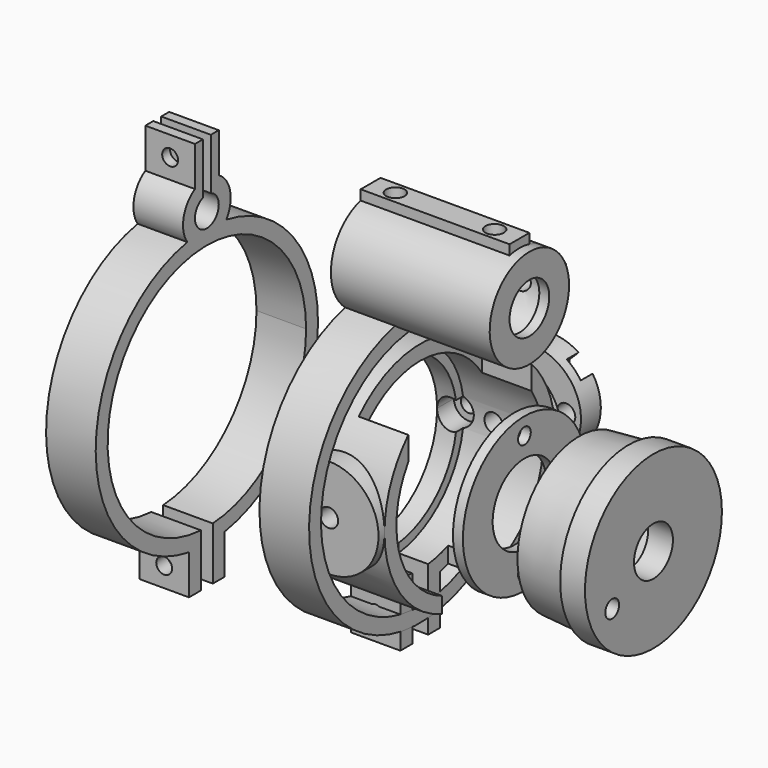
from build123d import *

# Parameters (mm, degrees)
SKETCH_R             = 25
SKETCH_R_2           = 3
PAD_DEPTH            = 10
SKETCH039_R          = 1.6
POCKET_DEPTH         = 31.001
SKETCH040_R          = 1.6
POCKET024_DEPTH      = 32.501
SKETCH041_W          = 2
SKETCH041_H          = 10.367725298
SKETCH041_W_2        = 3
SKETCH041_H_2        = 10.6810677839
POCKET025_DEPTH      = 10.001
SKETCH007_R          = 16.25
SKETCH008_R          = 15.5
SKETCH009_R          = 17.25
PAD003_DEPTH         = 5
SKETCH010_R          = 4.9
POCKET004_DEPTH      = 5.001
SKETCH011_R          = 1.85
POCKET005_DEPTH      = 10.0010001
SKETCH012_R          = 1.75
POCKET006_DEPTH      = 10.0010001
POCKET006_DEPTH_BACK = 5.001
SKETCH049_R          = 15.5
SKETCH049_R_2        = 8
PAD014_DEPTH         = 2
SKETCH050_R          = 1.6
POCKET032_DEPTH      = 2.001
SKETCH030_R          = 21.5
PAD010_DEPTH         = 20
SKETCH031_R          = 10
PAD011_DEPTH         = 23
SKETCH032_W          = 10
SKETCH032_H          = 10
PAD012_DEPTH         = 10
SKETCH033_R          = 1.6
POCKET018_DEPTH      = 28.0010001
POCKET019_DEPTH      = 20.0010001
SKETCH035_R          = 18.5
POCKET020_DEPTH      = 16.0010001
SKETCH036_W          = 14
SKETCH036_H          = 4.2822308391
SKETCH036_W_2        = 31
SKETCH036_H_2        = 11.4004950616
POCKET021_DEPTH      = 10.0010001
SKETCH046_R          = 1.85
POCKET029_DEPTH      = 46.0010001
SKETCH047_R          = 1.6
POCKET030_DEPTH      = 10
SKETCH048_R          = 3
POCKET031_DEPTH      = 10
SKETCH042_R          = 10
PAD013_DEPTH         = 5
POCKET026_DEPTH      = 3
SKETCH044_R          = 2.75
POCKET027_DEPTH      = 5.001
SKETCH045_R          = 1.85
POCKET028_DEPTH      = 5.001
BODY008_ROLL_ANGLE   = -90
BODY008_PITCH_ANGLE  = -45
SKETCH051_R          = 28
SKETCH051_R_2        = 25
PAD015_DEPTH         = 10
SKETCH052_W          = 10
SKETCH052_H          = 10
PAD016_DEPTH         = 10
SKETCH053_W          = 12.5699626343
SKETCH053_H          = 2
POCKET033_DEPTH      = 10.001
SKETCH054_R          = 1.65
POCKET034_DEPTH      = 33.001
POCKET035_DEPTH      = 2
SKETCH056_R          = 10
PAD017_DEPTH         = 30
SKETCH057_W          = 5
SKETCH057_H          = 2
SKETCH057_W_2        = 2
SKETCH057_H_2        = 5
PAD018_DEPTH         = 30
SKETCH058_R          = 1.85
POCKET036_DEPTH      = 6
SKETCH059_R          = 1.85
POCKET037_DEPTH      = 6
SKETCH060_R          = 10
SKETCH060_R_2        = 5
PAD019_DEPTH         = 2


with BuildPart() as sight:
    # Sketch → Pad (new body)
    with BuildSketch(Plane.YZ):
        with BuildLine():
            ThreePointArc((-4.9190904212, 27.564516129), (-27.999193066, -0.2125738789), (-4.5, -27.6360272109))
            Line((-4.5, -27.6360272109), (-4.5, -35.6360272109))
            Line((-4.5, -35.6360272109), (4.5, -35.6360272109))
            Line((4.5, -35.6360272109), (4.5, -27.6360272109))
            ThreePointArc((4.5, -27.6360272109), (27.999193066, -0.2125738789), (4.9190904212, 27.564516129))
            ThreePointArc((4.9190904212, 27.564516129), (5.8569859614, 32.302196394), (3, 36.1961524227))
            Line((3, 36.1961524227), (3, 44.1961524227))
            Line((3, 44.1961524227), (-3, 44.1961524227))
            Line((-3, 44.1961524227), (-3, 36.1961524227))
            ThreePointArc((-3, 36.1961524227), (-5.8569859614, 32.302196394), (-4.9190904212, 27.564516129))
        make_face()
        Circle(SKETCH_R, mode=Mode.SUBTRACT)
        with Locations((0, 31)):
            Circle(SKETCH_R_2, mode=Mode.SUBTRACT)
    extrude(amount=PAD_DEPTH)

    # Sketch039 (on Face9 of Pad) → Pocket (cut, through all)
    with BuildSketch(Plane(origin=(0, -3, 0), x_dir=(0, 0, -1), z_dir=(0, -1, 0))):
        with Locations((-40.1961524227, 5)):
            Circle(SKETCH039_R)
    extrude(amount=-POCKET_DEPTH, mode=Mode.SUBTRACT)

    # Sketch040 (on Face3 of Pocket) → Pocket024 (cut, through all)
    with BuildSketch(Plane(origin=(0, -4.5, 0), x_dir=(0, 0, -1), z_dir=(0, -1, 0))):
        with Locations((31.6360272109, 5)):
            Circle(SKETCH040_R)
    extrude(amount=-POCKET024_DEPTH, mode=Mode.SUBTRACT)

    # Sketch041 → Pocket025 (cut, through all)
    with BuildSketch(Plane.YZ):
        with Locations((0, 39.0122897737)):
            Rectangle(SKETCH041_W, SKETCH041_H)
        with Locations((0, -30.2954933189)):
            Rectangle(SKETCH041_W_2, SKETCH041_H_2)
    extrude(amount=POCKET025_DEPTH, mode=Mode.SUBTRACT)


with BuildPart() as sight_1:
    # Body placement: moved
    add(sight.part.moved(Location((-43, 0, 0))))


with BuildPart() as end_cap:
    # Sketch007 → AdditiveLoft section 0
    with BuildSketch(Plane.YZ):
        Circle(SKETCH007_R)
    # Sketch008 → AdditiveLoft section 1
    with BuildSketch(Plane.YZ.offset(-10)):
        Circle(SKETCH008_R)
    loft()

    # Sketch009 → Pad003 (new body)
    with BuildSketch(Plane.YZ):
        Circle(SKETCH009_R)
    extrude(amount=PAD003_DEPTH)

    # Sketch010 → Pocket004 (cut, through all)
    with BuildSketch(Plane.YZ):
        Circle(SKETCH010_R)
    extrude(amount=POCKET004_DEPTH, mode=Mode.SUBTRACT)

    # Sketch011 → Pocket005 (cut, through all)
    with BuildSketch(Plane.YZ):
        with Locations((0, 12)):
            Circle(SKETCH011_R)
        with Locations((0, -12)):
            Circle(SKETCH011_R)
        Polygon((-9.8149545762, 0), (-4.9074772881, -8.5), (4.9074772881, -8.5), (9.8149545762, 0), (4.9074772881, 8.5), (-4.9074772881, 8.5), align=None)
    extrude(amount=-POCKET005_DEPTH, mode=Mode.SUBTRACT)

    # Sketch012 → Pocket006 (cut, two sides)
    with BuildSketch(Plane.YZ) as pocket006_sk:
        with Locations((-10.3923048454, -6)):
            Circle(SKETCH012_R)
    extrude(amount=-POCKET006_DEPTH, mode=Mode.SUBTRACT)
    extrude(pocket006_sk.sketch, amount=POCKET006_DEPTH_BACK, mode=Mode.SUBTRACT)


with BuildPart() as end_cap_1:
    # Body002 placement: moved
    add(end_cap.part.moved(Location((52, 0, 0))))


with BuildPart() as instruments:
    # Sketch049 → Pad014 (new body)
    with BuildSketch(Plane.YZ):
        Circle(SKETCH049_R)
        Circle(SKETCH049_R_2, mode=Mode.SUBTRACT)
    extrude(amount=PAD014_DEPTH)

    # Sketch050 (on Face3 of Pad014) → Pocket032 (cut, through all)
    with BuildSketch(Plane(origin=(0, 0, 0), x_dir=(0, 1, 0), z_dir=(-1, 0, 0))):
        with Locations((0, 12)):
            Circle(SKETCH050_R)
        with Locations((0, -12)):
            Circle(SKETCH050_R)
    extrude(amount=-POCKET032_DEPTH, mode=Mode.SUBTRACT)


with BuildPart() as instruments_1:
    # Body003 placement: moved
    add(instruments.part.moved(Location((29, 0, 0))))


with BuildPart() as obj1:
    # Sketch030 → Pad010 (new body)
    with BuildSketch(Plane.YZ):
        Circle(SKETCH030_R)
    extrude(amount=PAD010_DEPTH)

    # Sketch031 → Pad011 (join, symmetric)
    with BuildSketch(Plane.XZ):
        with Locations((10, 0)):
            Circle(SKETCH031_R)
    extrude(amount=PAD011_DEPTH, both=True)

    # Sketch032 → Pad012 (join)
    with BuildSketch(Plane.YZ):
        with Locations((0, -25.9105236663)):
            Rectangle(SKETCH032_W, SKETCH032_H)
    extrude(amount=PAD012_DEPTH)

    # Sketch033 (on Face8 of Pad012) → Pocket018 (cut, through all)
    with BuildSketch(Plane(origin=(0, -5, 0), x_dir=(0, 0, -1), z_dir=(0, -1, 0))):
        with Locations((25.9105236663, 5)):
            Circle(SKETCH033_R)
    extrude(amount=-POCKET018_DEPTH, mode=Mode.SUBTRACT)

    # Sketch034 → Pocket019 (cut, through all)
    with BuildSketch(Plane.YZ):
        with BuildLine():
            ThreePointArc((2, -16.6301683696), (0, 16.75), (-2, -16.6301683696))
            Line((-2, -16.6301683696), (-2, -30.9105236663))
            Line((-2, -30.9105236663), (2, -30.9105236663))
            Line((2, -30.9105236663), (2, -16.6301683696))
        make_face()
    extrude(amount=POCKET019_DEPTH, mode=Mode.SUBTRACT)

    # Sketch035 → Pocket020 (cut, through all)
    with BuildSketch(Plane.YZ.offset(4)):
        Circle(SKETCH035_R)
    extrude(amount=POCKET020_DEPTH, mode=Mode.SUBTRACT)

    # Sketch036 → Pocket021 (cut, through all)
    with BuildSketch(Plane.YZ.offset(10)):
        with Locations((0, -19.2656592091)):
            Rectangle(SKETCH036_W, SKETCH036_H)
        with Locations((0, 15.7997524692)):
            Rectangle(SKETCH036_W_2, SKETCH036_H_2)
    extrude(amount=POCKET021_DEPTH, mode=Mode.SUBTRACT)

    # Sketch046 (on Face19 of Pocket021) → Pocket029 (cut, through all)
    with BuildSketch(Plane(origin=(0, -23, 0), x_dir=(0, 0, -1), z_dir=(0, -1, 0))):
        with Locations((0, 10)):
            Circle(SKETCH046_R)
    extrude(amount=-POCKET029_DEPTH, mode=Mode.SUBTRACT)

    # Sketch047 (on Face23 of Pocket029) → Pocket030 (cut)
    with BuildSketch(Plane.ZX.offset(23)):
        with Locations((0, 17)):
            Circle(SKETCH047_R)
        with Locations((0, 3)):
            Circle(SKETCH047_R)
    extrude(amount=-POCKET030_DEPTH, mode=Mode.SUBTRACT)

    # Sketch048 (on Face23 of Pocket030) → Pocket031 (cut)
    with BuildSketch(Plane.ZX.offset(21)):
        with Locations((0, 17)):
            Circle(SKETCH048_R)
        with Locations((0, 3)):
            Circle(SKETCH048_R)
    extrude(amount=-POCKET031_DEPTH, mode=Mode.SUBTRACT)


with BuildPart() as servo_adapter:
    # Sketch042 → Pad013 (new body)
    with BuildSketch(Plane.XY):
        Circle(SKETCH042_R)
    extrude(amount=PAD013_DEPTH)

    # Sketch043 (on Face3 of Pad013) → Pocket026 (cut)
    with BuildSketch(Plane.XY.offset(5)):
        with BuildLine():
            Line((-2, 10), (2, 10))
            Line((2, 10), (2, 3.3))
            ThreePointArc((2, 3.3), (2.3807611845, 2.3807611845), (3.3, 2))
            Line((3.3, 2), (10, 2))
            Line((10, 2), (10, -2))
            Line((10, -2), (3.3, -2))
            ThreePointArc((3.3, -2), (2.3807611845, -2.3807611845), (2, -3.3))
            Line((2, -3.3), (2, -10))
            Line((2, -10), (-2, -10))
            Line((-2, -10), (-2, -3.3))
            ThreePointArc((-2, -3.3), (-2.3807611845, -2.3807611845), (-3.3, -2))
            Line((-3.3, -2), (-10, -2))
            Line((-10, -2), (-10, 2))
            Line((-10, 2), (-3.3, 2))
            ThreePointArc((-3.3, 2), (-2.3807611845, 2.3807611845), (-2, 3.3))
            Line((-2, 3.3), (-2, 10))
        make_face()
    extrude(amount=-POCKET026_DEPTH, mode=Mode.SUBTRACT)

    # Sketch044 (on Face2 of Pocket026) → Pocket027 (cut, through all)
    with BuildSketch(Plane(origin=(0, 0, 0), x_dir=(1, 0, 0), z_dir=(0, 0, -1))):
        Circle(SKETCH044_R)
    extrude(amount=-POCKET027_DEPTH, mode=Mode.SUBTRACT)

    # Sketch045 (on Face8 of Pocket027) → Pocket028 (cut, through all)
    with BuildSketch(Plane.XY.offset(5)):
        with Locations((4.9497474683, 4.9497474683)):
            Circle(SKETCH045_R)
        with Locations((-4.9497474683, -4.9497474683)):
            Circle(SKETCH045_R)
    extrude(amount=-POCKET028_DEPTH, mode=Mode.SUBTRACT)


with BuildPart() as servo_adapter_1:
    # Body008 roll: moved
    add(servo_adapter.part.rotate(Axis((0, 0, 0), (1, 0, 0)), BODY008_ROLL_ANGLE))


with BuildPart() as servo_adapter_2:
    # Body008 pitch: moved
    add(servo_adapter_1.part.rotate(Axis((0, 0, 0), (0, 1, 0)), BODY008_PITCH_ANGLE))


with BuildPart() as servo_adapter_3:
    # Body008 placement: moved
    add(servo_adapter_2.part.moved(Location((10, 28, 0))))


with BuildPart() as sight2:
    # Sketch051 → Pad015 (new body)
    with BuildSketch(Plane.YZ):
        Circle(SKETCH051_R)
        Circle(SKETCH051_R_2, mode=Mode.SUBTRACT)
    extrude(amount=PAD015_DEPTH)

    # Sketch052 → Pad016 (join)
    with BuildSketch(Plane.YZ):
        with Locations((32.5499546279, 0)):
            Rectangle(SKETCH052_W, SKETCH052_H)
    extrude(amount=PAD016_DEPTH)

    # Sketch053 (on Face7 of Pad016) → Pocket033 (cut, through all)
    with BuildSketch(Plane.YZ.offset(10)):
        with Locations((31.2649733108, 0)):
            Rectangle(SKETCH053_W, SKETCH053_H)
    extrude(amount=-POCKET033_DEPTH, mode=Mode.SUBTRACT)

    # Sketch054 (on Face7 of Pocket033) → Pocket034 (cut, through all)
    with BuildSketch(Plane(origin=(0, 0, 5), x_dir=(0, -1, 0), z_dir=(0, 0, 1))):
        with Locations((-32.5499546279, 5)):
            Circle(SKETCH054_R)
    extrude(amount=-POCKET034_DEPTH, mode=Mode.SUBTRACT)

    # Sketch055 (on Face1 of Pocket034) → Pocket035 (cut)
    with BuildSketch(Plane.YX.offset(5)):
        Polygon((30.9622413876, 2.25), (34.1376678682, 2.25), (35.7253811085, 5), (34.1376678682, 7.75), (30.9622413876, 7.75), (29.3745281474, 5), align=None)
    extrude(amount=-POCKET035_DEPTH, mode=Mode.SUBTRACT)

    # Sketch056 → Pad017 (join)
    with BuildSketch(Plane.YZ):
        with Locations((0, 35)):
            Circle(SKETCH056_R)
    extrude(amount=PAD017_DEPTH)

    # Cone → Cone (revolve, cut)
    with BuildSketch(Plane(origin=(15, 0, 35), x_dir=(0, 0, 1), z_dir=(0, 1, 0))):
        Polygon((0, 0), (6.1, 0), (7, 15), (0, 15), align=None)
    revolve(axis=Axis((15, 0, 35), (1, 0, 0)), mode=Mode.SUBTRACT)

    # Cone001 → Cone001 (revolve, cut)
    with BuildSketch(Plane(origin=(0, 0, 35), x_dir=(0, 0, 1), z_dir=(0, 1, 0))):
        Polygon((0, 0), (7, 0), (6.1, 15), (0, 15), align=None)
    revolve(axis=Axis((0, 0, 35), (1, 0, 0)), mode=Mode.SUBTRACT)

    # Sketch057 → Pad018 (join)
    with BuildSketch(Plane.YZ):
        with Locations((0, 45.6824583655)):
            Rectangle(SKETCH057_W, SKETCH057_H)
        with Locations((10.6824583655, 35)):
            Rectangle(SKETCH057_W_2, SKETCH057_H_2)
    extrude(amount=PAD018_DEPTH)

    # Sketch058 (on Face28 of Pad018) → Pocket036 (cut)
    with BuildSketch(Plane(origin=(0, 0, 46.6824583655), x_dir=(0, -1, 0), z_dir=(0, 0, 1))):
        with Locations((0, 25)):
            Circle(SKETCH058_R)
        with Locations((0, 5)):
            Circle(SKETCH058_R)
    extrude(amount=-POCKET036_DEPTH, mode=Mode.SUBTRACT)

    # Sketch059 (on Face14 of Pocket036) → Pocket037 (cut)
    with BuildSketch(Plane(origin=(0, 11.6824583655, 35), x_dir=(0, 0, 1), z_dir=(0, 1, 0))):
        with Locations((0, 25)):
            Circle(SKETCH059_R)
        with Locations((0, 5)):
            Circle(SKETCH059_R)
    extrude(amount=-POCKET037_DEPTH, mode=Mode.SUBTRACT)

    # Sketch060 (on Face4 of Pocket037) → Pad019 (join)
    with BuildSketch(Plane(origin=(30, 0, 35), x_dir=(0, 0, 1), z_dir=(1, 0, 0))):
        Circle(SKETCH060_R)
        Circle(SKETCH060_R_2, mode=Mode.SUBTRACT)
    extrude(amount=PAD019_DEPTH)


solid = Compound([sight_1.part, end_cap_1.part, instruments_1.part, obj1.part, servo_adapter_3.part, sight2.part])
